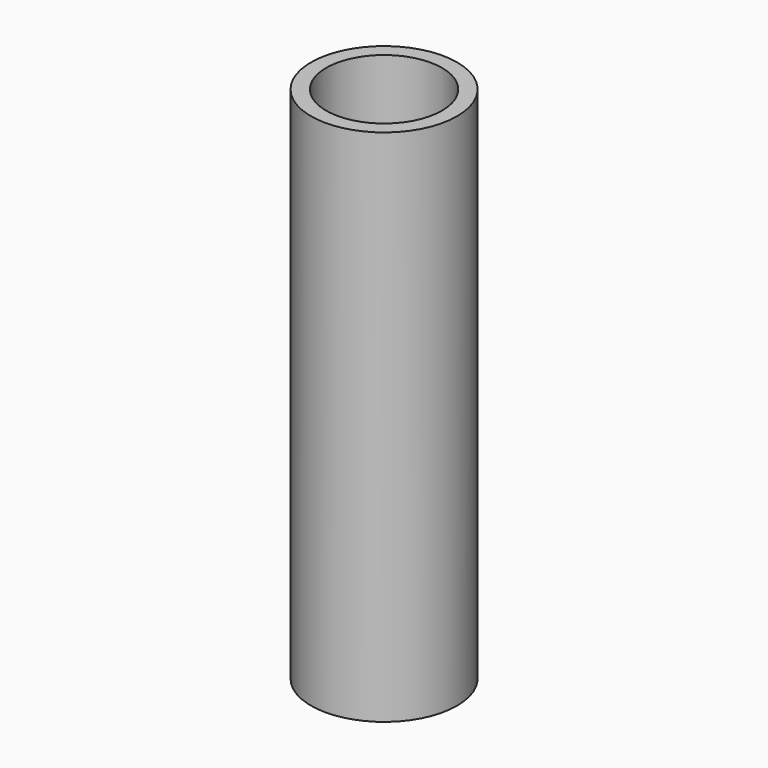
from build123d import *

# Parameters (mm, degrees)
F1_R     = 14.5
F1_R_2   = 11.5
F2_DEPTH = 100
F3_R     = 14.5
F4_DEPTH = 3


with BuildPart() as f2:
    # F1 (on Top) → F2 (new body)
    with BuildSketch(Plane.XY):
        Circle(F1_R)
        Circle(F1_R_2, mode=Mode.SUBTRACT)
    extrude(amount=F2_DEPTH)

    # F3 (on Top) → F4 (join)
    with BuildSketch(Plane.XY):
        Circle(F3_R)
    extrude(amount=-F4_DEPTH)


solid = f2.part
